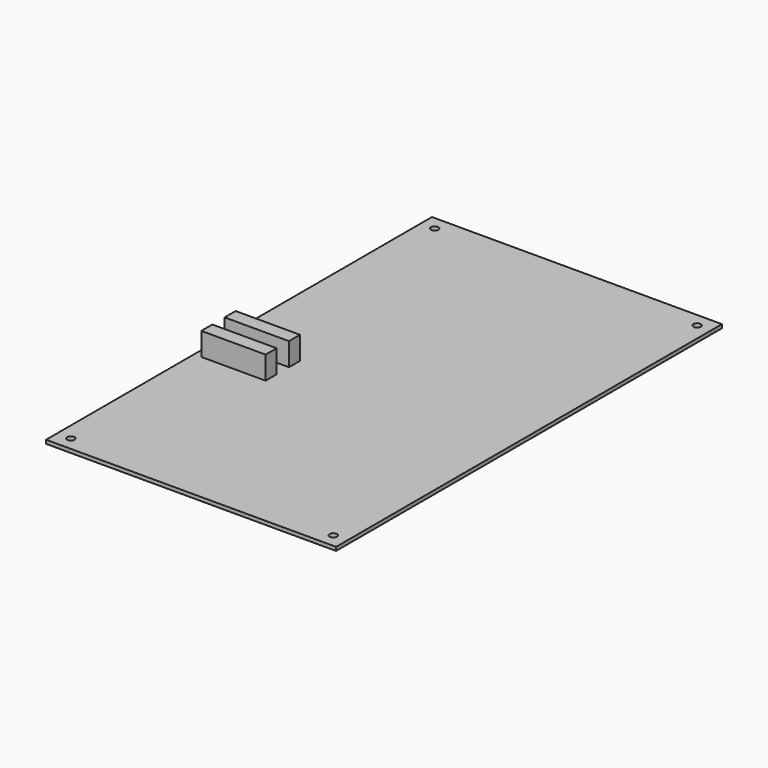
from build123d import *

# Parameters (mm, degrees)
SKETCH001_W      = 126.265
SKETCH001_H      = 210
SKETCH001_R      = 1.6
EXTRUDE001_DEPTH = 1.6
SKETCH006_W      = 28
SKETCH006_H      = 6
EXTRUDE006_DEPTH = 10


with BuildPart() as extrude001:
    # Sketch001 → Extrude001 (new body)
    with BuildSketch(Plane.XY.offset(8)):
        with Locations((233.8675, 105)):
            Rectangle(SKETCH001_W, SKETCH001_H)
        with Locations((176.735, 204)):
            Circle(SKETCH001_R, mode=Mode.SUBTRACT)
        with Locations((291, 204)):
            Circle(SKETCH001_R, mode=Mode.SUBTRACT)
        with Locations((291, 6)):
            Circle(SKETCH001_R, mode=Mode.SUBTRACT)
        with Locations((176.735, 6)):
            Circle(SKETCH001_R, mode=Mode.SUBTRACT)
    extrude(amount=EXTRUDE001_DEPTH)


with BuildPart() as ula8:
    # Sketch006 (on Face10 of Extrude001) → Extrude006 (new body)
    with BuildSketch(Plane.XY.offset(9.6)):
        with Locations((187.88, 96.255)):
            Rectangle(SKETCH006_W, SKETCH006_H)
        with Locations((187.88, 83.555)):
            Rectangle(SKETCH006_W, SKETCH006_H)
    extrude(amount=EXTRUDE006_DEPTH)

    # Fusion003: union Extrude001
    add(extrude001.part)


solid = ula8.part
